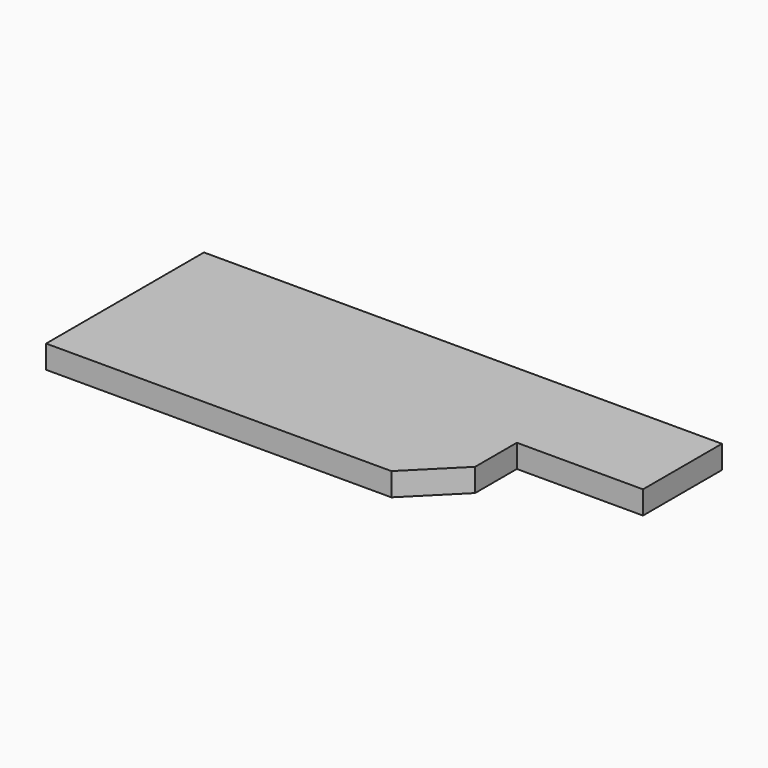
from build123d import *

# Parameters (mm, degrees)
F1_DEPTH = 285.75


with BuildPart() as f1:
    # F0 (on Top) → F1 (new body)
    with BuildSketch(Plane.XY):
        Polygon((0, -812.8), (0, -2438.4), (1625.6, -2438.4), (3251.2, -2438.4), (4267.2, -2438.4), (4841.936392, -1863.663608), (4841.936392, -1219.2), (5181.6, -1219.2), (6400.8, -1219.2), (6400.8, 0), (0, 0), align=None)
    extrude(amount=-F1_DEPTH)


solid = f1.part
